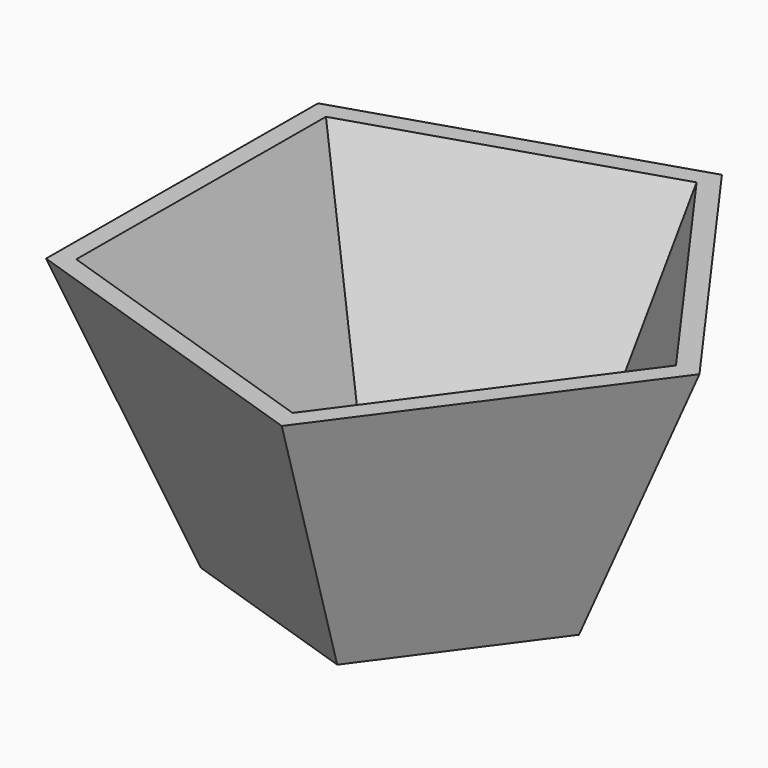
from build123d import *

# Parameters (mm, degrees)
F1_DEPTH = 38.1
F1_TAPER = -20
F2_T     = -2.54


with BuildPart() as f1:
    # F0 (on Top) → F1 (new body)
    with BuildSketch(Plane.XY):
        Polygon((23.5467331445, -0.1305366289), (7.4004884152, 22.3539359578), (-18.9729797706, 13.9460288332), (-19.1264347813, -13.7348161309), (7.1521929922, -22.4346120313), align=None)
    extrude(amount=F1_DEPTH, taper=F1_TAPER)

    # F2
    f2_openings = [f1.faces().sort_by_distance(p)[0] for p in [
        (0, 0, 38.1),
    ]]
    offset(amount=F2_T, openings=f2_openings)


solid = f1.part
